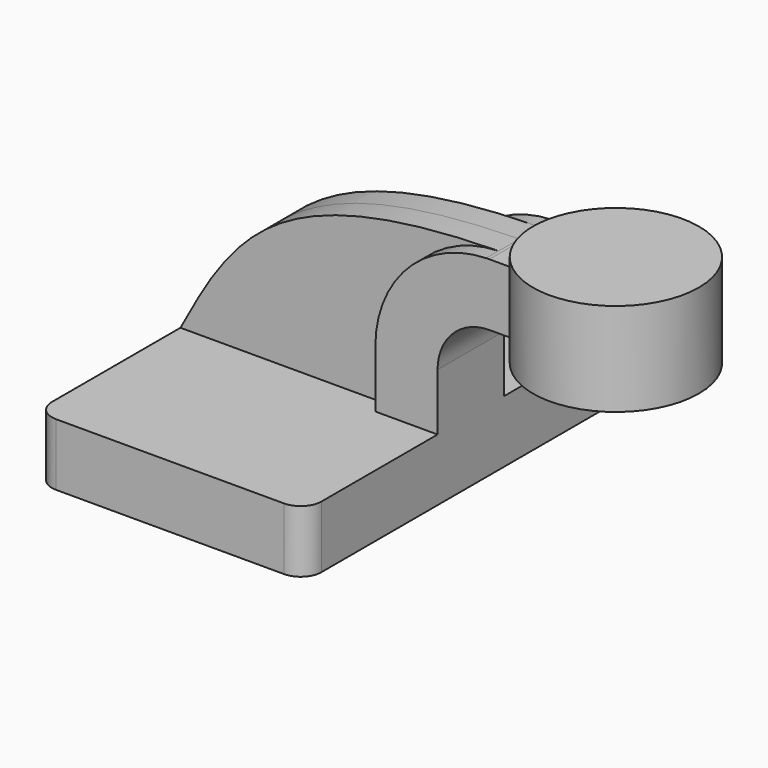
from build123d import *

# Parameters (mm, degrees)
F1_DEPTH = 63.5
F0_W     = 25.4
F0_H     = 19.05
F2_DEPTH = 12.7
F3_DEPTH = 7.9375
F5_R     = 6.35


with BuildPart() as f1:
    # F0 (on Front) → F1 (new body, symmetric)
    with BuildSketch(Plane.XZ):
        Polygon((-41.275, -9.525), (41.275, -9.525), (41.275, 9.525), (22.225, 9.525), (-41.275, 9.525), align=None)
    extrude(amount=F1_DEPTH, both=True)

    # F0 (on Front) → F2 (join, symmetric)
    with BuildSketch(Plane.XZ):
        with BuildLine():
            Line((22.225, 9.525), (41.275, 9.525))
            Line((41.275, 9.525), (41.275, 27.0002))
            ThreePointArc((41.275, 27.0002), (45.92468, 38.22552), (57.15, 42.8752))
            Line((57.15, 42.8752), (60.325, 42.8752))
            Line((60.325, 42.8752), (60.325, 61.9252))
            Line((60.325, 61.9252), (57.15, 61.9252))
            add(Edge.make_bspline(
                [(56.151356, 61.910919), (56.482927, 61.916142), (56.815806, 61.920903), (57.15, 61.9252)],
                knots=[110.96262, 110.96262, 110.96262, 110.96262, 111.504536, 111.504536, 111.504536, 111.504536], degree=3))
            ThreePointArc((56.151356, 61.910919), (32.10371, 51.34027), (22.225, 27.0002))
            Line((22.225, 27.0002), (22.225, 9.525))
        make_face()
        with Locations((73.025, 52.4002)):
            Rectangle(F0_W, F0_H)
    extrude(amount=F2_DEPTH, both=True)

    # F0 (on Front) → F3 (join, symmetric)
    with BuildSketch(Plane.XZ):
        with BuildLine():
            add(Edge.make_bspline(
                [(-41.275, 9.525), (-24.779373, 40.398362), (-11.740939, 60.84154), (56.151356, 61.910919)],
                knots=[0, 0, 0, 0, 110.96262, 110.96262, 110.96262, 110.96262], degree=3))
            Line((-41.275, 9.525), (22.225, 9.525))
            Line((22.225, 9.525), (22.225, 27.0002))
            ThreePointArc((22.225, 27.0002), (32.10371, 51.34027), (56.151356, 61.910919))
        make_face()
    extrude(amount=F3_DEPTH, both=True)

    # F5
    f5_edges = [f1.edges().sort_by_distance(p)[0] for p in [
        (41.275, -63.5, 0),
        (-41.275, -63.5, 0),
        (41.275, 63.5, 0),
        (-41.275, 63.5, 0),
    ]]
    fillet(f5_edges, radius=F5_R)


with BuildPart() as f4:
    # F0 (on Front) → F4 (revolve)
    with BuildSketch(Plane.XZ):
        Polygon((85.725, 61.9252), (85.725, 42.8752), (85.725, 38.1), (111.125, 38.1), (111.125, 66.675), (85.725, 66.675), align=None)
    revolve(axis=Axis((85.725, 0, 52.4002), (0, 0, -1)))


solid = Compound([f1.part, f4.part])
